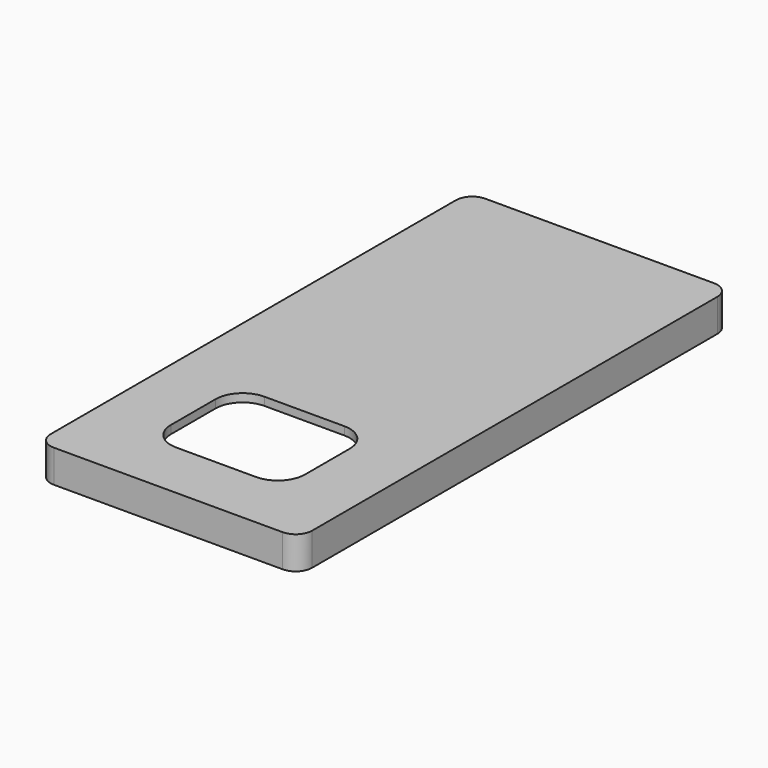
from build123d import *

# Parameters (mm, degrees)
EXTRUDE004_DEPTH = 10
SKETCH003_R      = 2.197673
EXTRUDE003_DEPTH = 10
EXTRUDE_DEPTH    = 8
FILLET_R         = 3.5
EXTRUDE001_DEPTH = 2.5
EXTRUDE002_DEPTH = 10


with BuildPart() as extrude004:
    # Sketch004 (on Face35 of Cut) → Extrude004 (new body)
    with BuildSketch(Plane(origin=(0, 0, 8), x_dir=(1, 0, 0), z_dir=(0, 0, -1))):
        with BuildLine():
            ThreePointArc((-12.218708, 64.166268), (-18.089957, 61.734317), (-20.521908, 55.863067))
            Line((-20.521908, 38.765661), (-20.521908, 55.863067))
            ThreePointArc((-20.521908, 38.765661), (-18.089957, 32.894412), (-12.218708, 30.462461))
            Line((12.218708, 30.462461), (-12.218708, 30.462461))
            ThreePointArc((12.218708, 30.462461), (18.089957, 32.894412), (20.521908, 38.765661))
            Line((20.521908, 55.863067), (20.521908, 38.765661))
            ThreePointArc((20.521908, 55.863067), (18.089957, 61.734317), (12.218708, 64.166268))
            Line((-12.218708, 64.166268), (12.218708, 64.166268))
        make_face()
    extrude(amount=-EXTRUDE004_DEPTH)


with BuildPart() as compound_features_to_remove:
    # Sketch003 (on Face6 of Cut) → Extrude003 (new body)
    with BuildSketch(Plane(origin=(0, 82.5, 0), x_dir=(-1, 0, 0), z_dir=(0, 1, 0))):
        with Locations((-22.370322, 6.27106)):
            Circle(SKETCH003_R)
        with Locations((22.370322, 6.27106)):
            Circle(SKETCH003_R)
        with BuildLine():
            ThreePointArc((5.787986, 4.150016), (7.90903, 6.27106), (5.787986, 8.392104))
            Line((5.787986, 8.392104), (-5.787986, 8.392104))
            ThreePointArc((-5.787986, 8.392104), (-7.90903, 6.27106), (-5.787986, 4.150016))
            Line((-5.787986, 4.150016), (5.787986, 4.150016))
        make_face()
    extrude(amount=-EXTRUDE003_DEPTH)

    # Compound: union Extrude004
    add(extrude004.part)


with BuildPart() as fillet_body:
    # Sketch → Extrude (new body)
    with BuildSketch(Plane.XY):
        with BuildLine():
            ThreePointArc((-29.5, 80), (-34.449747, 77.949747), (-36.5, 73))
            Line((-36.5, -73), (-36.5, 73))
            ThreePointArc((-36.5, -73), (-34.449747, -77.949747), (-29.5, -80))
            Line((29.5, -80), (-29.5, -80))
            ThreePointArc((29.5, -80), (34.449747, -77.949747), (36.5, -73))
            Line((36.5, 73), (36.5, -73))
            ThreePointArc((36.5, 73), (34.449747, 77.949747), (29.5, 80))
            Line((-29.5, 80), (29.5, 80))
        make_face()
    extrude(amount=EXTRUDE_DEPTH)

    # Fillet
    fillet_edges = [fillet_body.edges().sort_by_distance(p)[0] for p in [
        (-34.449747, 77.949747, 0),
        (-34.449747, 77.949747, 8),
        (-36.5, 0, 0),
        (-36.5, 0, 8),
        (-34.449747, -77.949747, 0),
        (-34.449747, -77.949747, 8),
        (0, -80, 0),
        (0, -80, 8),
        (34.449747, -77.949747, 0),
        (34.449747, -77.949747, 8),
        (36.5, 0, 0),
        (36.5, 0, 8),
        (34.449747, 77.949747, 0),
        (34.449747, 77.949747, 8),
        (0, 80, 0),
        (0, 80, 8),
    ]]
    fillet(fillet_edges, radius=FILLET_R)


with BuildPart() as obj1:
    # Sketch001 (on Face9 of Fillet) → Extrude001 (new body, symmetric)
    with BuildSketch(Plane(origin=(0, 0, 0), x_dir=(1, 0, 0), z_dir=(0, 0, -1))):
        with BuildLine():
            ThreePointArc((-29.5, 78.25), (-33.212311, 76.712311), (-34.75, 73))
            Line((-34.75, -73), (-34.75, 73))
            ThreePointArc((-34.75, -73), (-33.212311, -76.712311), (-29.5, -78.25))
            Line((29.5, -78.25), (-29.5, -78.25))
            ThreePointArc((29.5, -78.25), (33.212311, -76.712311), (34.75, -73))
            Line((34.75, 73), (34.75, -73))
            ThreePointArc((34.75, 73), (33.212311, 76.712311), (29.5, 78.25))
            Line((-29.5, 78.25), (29.5, 78.25))
        make_face()
    extrude(amount=EXTRUDE001_DEPTH, both=True)

    # Fusion: union Fillet body
    add(fillet_body.part)


with BuildPart() as cut001:
    # Sketch002 (on Face4 of Fusion) → Extrude002 (new body)
    with BuildSketch(Plane(origin=(0, 0, 0.5), x_dir=(1, 0, 0), z_dir=(0, 0, -1))):
        with BuildLine():
            Line((-35, 82.5), (35, 82.5))
            ThreePointArc((40, 77.5), (38.535534, 81.035534), (35, 82.5))
            Line((40, 77.5), (40, -77.5))
            ThreePointArc((35, -82.5), (38.535534, -81.035534), (40, -77.5))
            Line((35, -82.5), (-35, -82.5))
            ThreePointArc((-40, -77.5), (-38.535534, -81.035534), (-35, -82.5))
            Line((-40, -77.5), (-40, 77.5))
            ThreePointArc((-35, 82.5), (-38.535534, 81.035534), (-40, 77.5))
        make_face()
    extrude(amount=-EXTRUDE002_DEPTH)

    # Cut: cut obj1
    add(obj1.part, mode=Mode.SUBTRACT)

    # Cut001: cut  Compound - Features to remove
    add(compound_features_to_remove.part, mode=Mode.SUBTRACT)


solid = cut001.part
